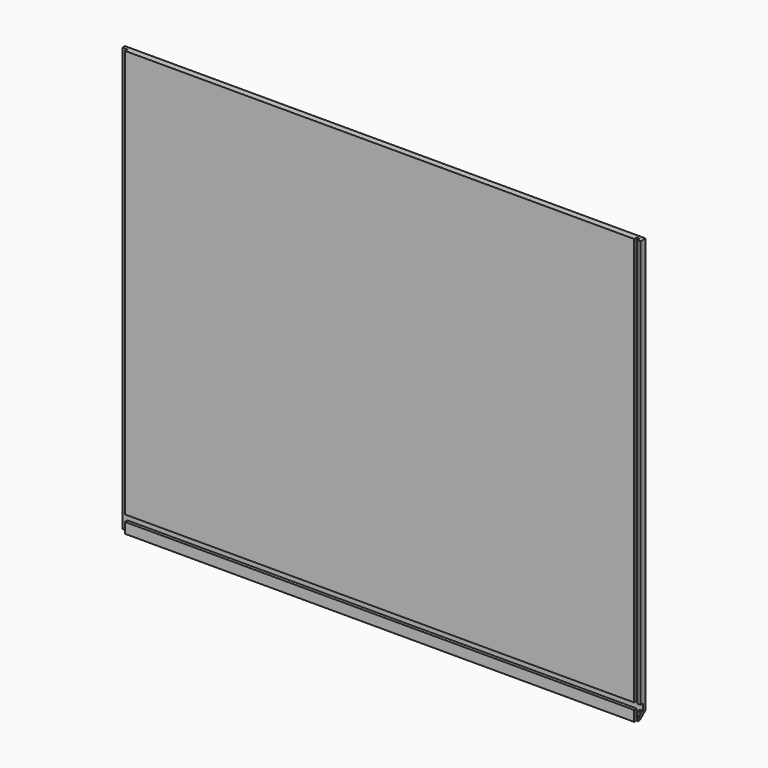
from build123d import *

# Parameters (mm, degrees)
F0_W      = 990.5
F0_H      = 12
F1_DEPTH  = 899
F2_W      = 9.5
F2_H      = 6
F3_DEPTH  = 899.001
F4_W      = 6
F4_H      = 6
F5_DEPTH  = 899.001
F6_W      = 6
F6_H      = 12.5
F7_DEPTH  = 990.501
F9_DEPTH  = 990.501
F11_DEPTH = 12.001


with BuildPart() as f1:
    # F0 (on Top) → F1 (new body)
    with BuildSketch(Plane.XY):
        with Locations((495.25, -6)):
            Rectangle(F0_W, F0_H)
    extrude(amount=F1_DEPTH)

    # F2 (on Top) → F3 (cut, through all)
    with BuildSketch(Plane.XY):
        with Locations((4.75, -9)):
            Rectangle(F2_W, F2_H)
    extrude(amount=F3_DEPTH, mode=Mode.SUBTRACT)

    # F4 (on Top) → F5 (cut, through all)
    with BuildSketch(Plane.XY):
        with Locations((981.5, -9)):
            Rectangle(F4_W, F4_H)
    extrude(amount=F5_DEPTH, mode=Mode.SUBTRACT)

    # F6 (on Right) → F7 (cut, through all)
    with BuildSketch(Plane.YZ):
        with Locations((-9, 116.25)):
            Rectangle(F6_W, F6_H)
    extrude(amount=F7_DEPTH, mode=Mode.SUBTRACT)

    # F8 (on Right) → F9 (cut, through all)
    with BuildSketch(Plane.YZ):
        Polygon((-25, 0), (0, 0), (0, 109), (-6.915434, 90), (-25, 90), align=None)
    extrude(amount=F9_DEPTH, mode=Mode.SUBTRACT)

    # F10 (on face) → F11 (cut, through all)
    with BuildSketch(Plane.XZ.offset(12)):
        Polygon((983.584566, 90), (990.5, 90), (990.5, 109), align=None)
    extrude(amount=-F11_DEPTH, mode=Mode.SUBTRACT)


solid = f1.part
